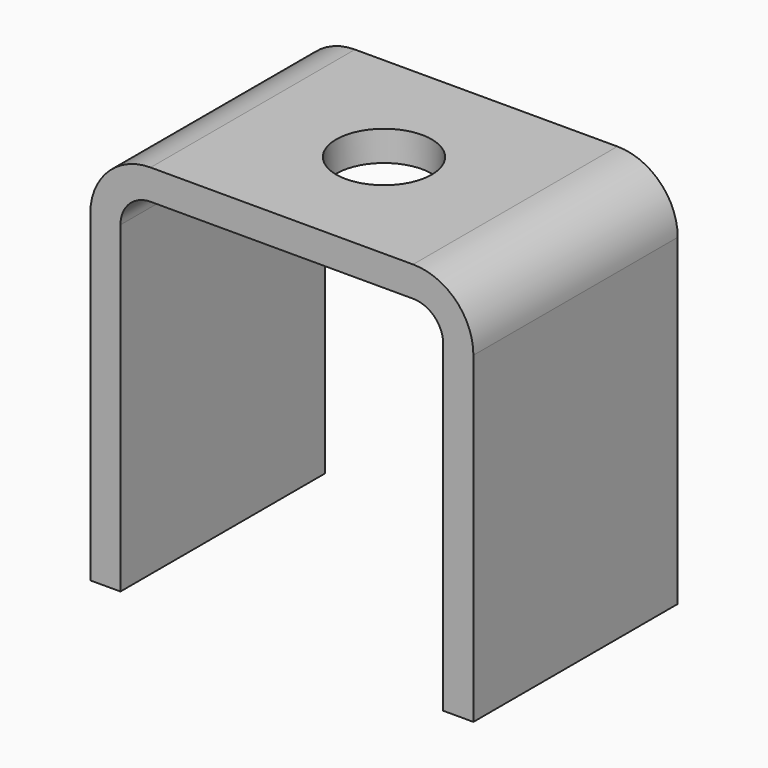
from build123d import *

# Parameters (mm, degrees)
F1_DEPTH = 12.7
F3_D     = 9.4996


with BuildPart() as f1:
    # F0 (on Front) → F1 (new body, symmetric)
    with BuildSketch(Plane.XZ):
        with BuildLine():
            Line((13.05, 0), (-13.05, 0))
            ThreePointArc((-13.05, 0), (-17.292641, -1.757359), (-19.05, -6))
            Line((-19.05, -6), (-19.05, -38.1))
            Line((-19.05, -38.1), (-16.05, -38.1))
            Line((-16.05, -38.1), (-16.05, -6))
            ThreePointArc((-16.05, -6), (-15.17132, -3.87868), (-13.05, -3))
            Line((-13.05, -3), (13.05, -3))
            ThreePointArc((13.05, -3), (15.17132, -3.87868), (16.05, -6))
            Line((16.05, -6), (16.05, -38.1))
            Line((16.05, -38.1), (19.05, -38.1))
            Line((19.05, -38.1), (19.05, -6))
            ThreePointArc((19.05, -6), (17.292641, -1.757359), (13.05, 0))
        make_face()
    extrude(amount=F1_DEPTH, both=True)

    # F3 (through all)
    with Locations(Plane.XY):
        with Locations((0, 0)):
            Hole(F3_D / 2)


solid = f1.part
